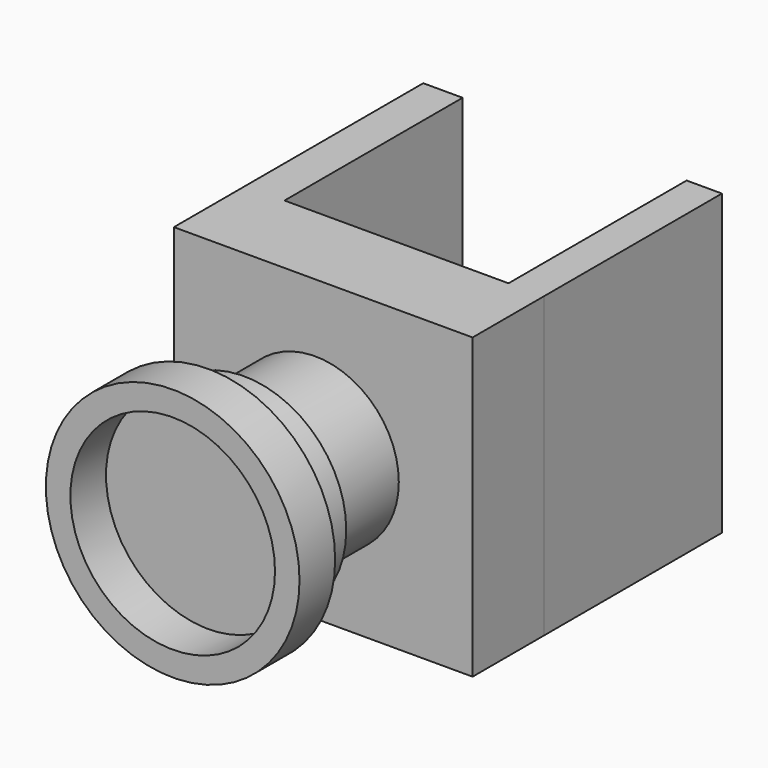
from build123d import *

# Parameters (mm, degrees)
F0_W     = 85.190501
F0_H     = 85.190509
F1_DEPTH = 25.4
F2_W     = 10.0732
F2_H     = 85.190509
F2_W_2   = 11.224425
F3_DEPTH = 63.5
F4_R     = 23.853174
F5_DEPTH = 25.4
F6_R     = 29.183556
F7_DEPTH = 12.7
F8_R     = 36.178129
F8_R_2   = 29.183556
F9_DEPTH = 12.7


with BuildPart() as f1:
    # F0 (on Front) → F1 (new body)
    with BuildSketch(Plane.XZ):
        with Locations((4.460988, -5.324406)):
            Rectangle(F0_W, F0_H)
    extrude(amount=F1_DEPTH)

    # F2 (on face) → F3 (join)
    with BuildSketch(Plane(origin=(0, 0, 0), x_dir=(-1, 0, 0), z_dir=(0, 1, 0))):
        with Locations((-42.019639, -5.324406)):
            Rectangle(F2_W, F2_H)
        with Locations((32.52205, -5.324406)):
            Rectangle(F2_W_2, F2_H)
    extrude(amount=F3_DEPTH)

    # F4 (on face) → F5 (join)
    with BuildSketch(Plane.XZ.offset(25.4)):
        with Locations((2.158546, -5.900018)):
            Circle(F4_R)
    extrude(amount=F5_DEPTH)

    # F6 (on face) → F7 (join)
    with BuildSketch(Plane.XZ.offset(50.8)):
        with Locations((2.158546, -5.900018)):
            Circle(F6_R)
    extrude(amount=F7_DEPTH)


with BuildPart() as f9:
    # F8 (on face) → F9 (new body)
    with BuildSketch(Plane.XZ.offset(63.5)):
        with Locations((2.158546, -5.900018)):
            Circle(F8_R)
        with Locations((2.158546, -5.900018)):
            Circle(F8_R_2, mode=Mode.SUBTRACT)
    extrude(amount=F9_DEPTH)


solid = Compound([f1.part, f9.part])
